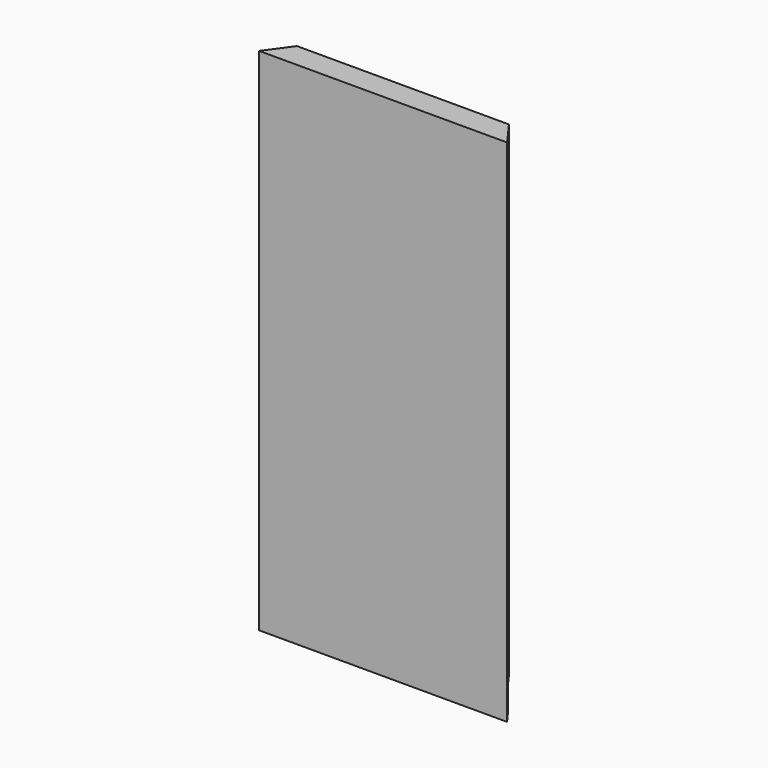
from build123d import *

# Parameters (mm, degrees)
F0_W     = 177.8
F0_H     = 365.76
F1_DEPTH = 17.78
F2_W     = 177.8
F2_H     = 17.78
F3_DEPTH = 10.16
F5_DEPTH = 365.761


with BuildPart() as f1:
    # F0 (on Front) → F1 (new body)
    with BuildSketch(Plane.XZ):
        with Locations((0, 182.88)):
            Rectangle(F0_W, F0_H)
    extrude(amount=F1_DEPTH)

    # F2 (on face) → F3 (cut)
    with BuildSketch(Plane(origin=(0, 0, 0), x_dir=(-1, 0, 0), z_dir=(0, 1, 0))):
        with Locations((0, 8.89)):
            Rectangle(F2_W, F2_H)
    extrude(amount=-F3_DEPTH, mode=Mode.SUBTRACT)

    # F4 (on face) → F5 (cut, through all)
    with BuildSketch(Plane.XY.offset(365.76)):
        Polygon((-88.9, 0), (-88.9, -17.78), (-75.982074, 0), align=None)
        Polygon((75.982074, 0), (88.9, -17.78), (88.9, 0), align=None)
    extrude(amount=-F5_DEPTH, mode=Mode.SUBTRACT)


solid = f1.part
